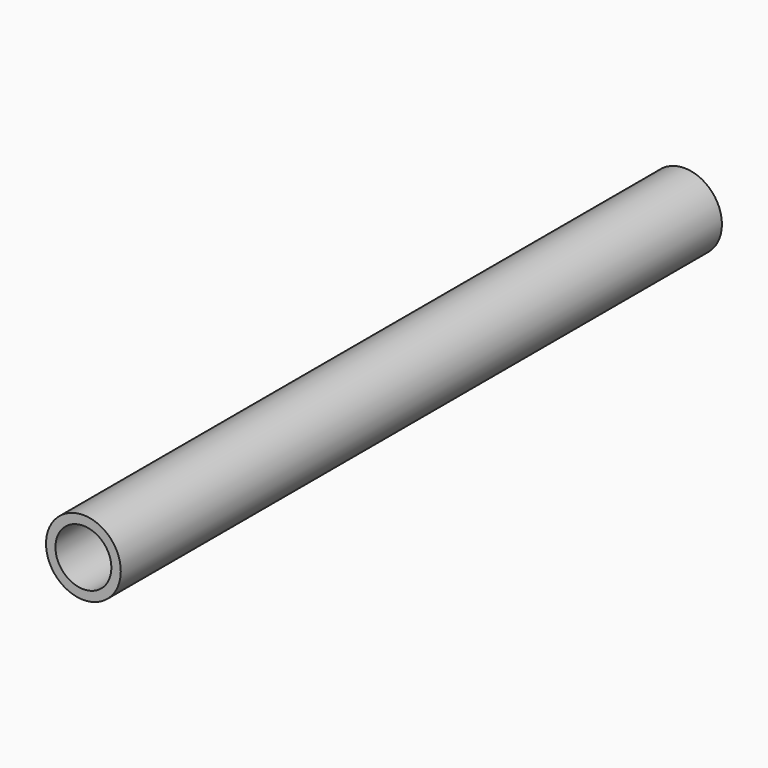
from build123d import *

# Parameters (mm, degrees)
F0_R     = 5.7
F0_R_2   = 4.7
F1_DEPTH = 120
F2_R     = 6
F2_R_2   = 4.489261
F3_DEPTH = 120.6


with BuildPart() as f1:
    # F0 (on Front) → F1 (new body)
    with BuildSketch(Plane.XZ):
        Circle(F0_R)
        Circle(F0_R_2, mode=Mode.SUBTRACT)
    extrude(amount=-F1_DEPTH)

    # F2 (on Front) → F3 (join)
    with BuildSketch(Plane.XZ):
        Circle(F2_R)
        Circle(F2_R_2, mode=Mode.SUBTRACT)
    extrude(amount=-F3_DEPTH)


solid = f1.part
